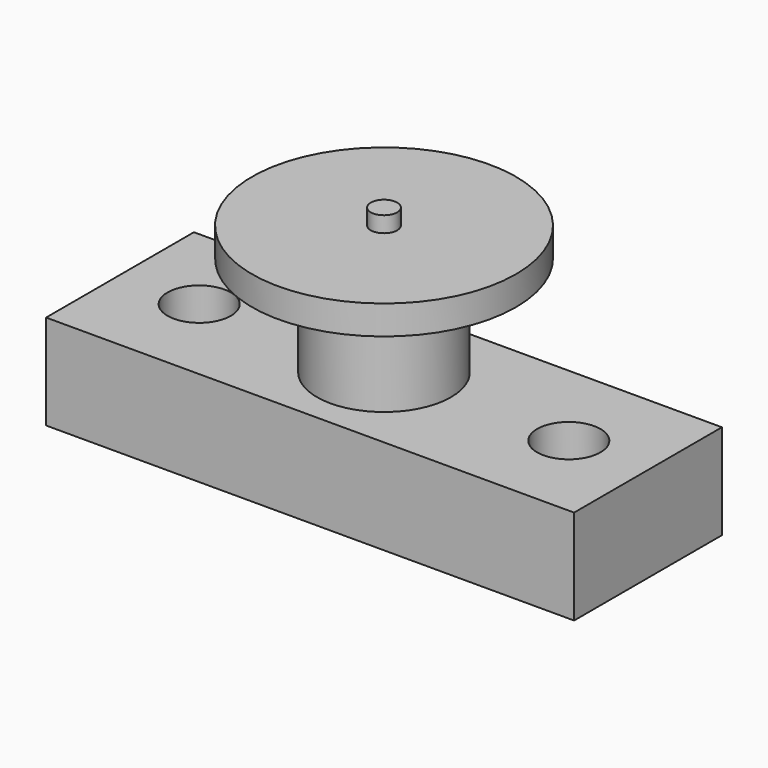
from build123d import *

# Parameters (mm, degrees)
F0_W     = 100
F0_H     = 35
F1_DEPTH = 18
F3_D     = 12
F4_R     = 12.7
F5_DEPTH = 19
F6_R     = 25
F6_R_2   = 12.7
F7_DEPTH = 5.5
F8_R     = 2.5
F9_DEPTH = 3


with BuildPart() as f1:
    # F0 (on Top) → F1 (new body)
    with BuildSketch(Plane.XY):
        Rectangle(F0_W, F0_H)
    extrude(amount=-F1_DEPTH)

    # F3 (through all)
    with Locations(Plane.XY):
        with Locations((-35, 0), (35, 0)):
            Hole(F3_D / 2)

    # F4 (on face) → F5 (join)
    with BuildSketch(Plane.XY):
        Circle(F4_R)
    extrude(amount=F5_DEPTH)

    # F6 (on face) → F7 (join)
    with BuildSketch(Plane.XY.offset(19)):
        Circle(F6_R)
        Circle(F6_R_2, mode=Mode.SUBTRACT)
        Circle(F6_R_2)
    extrude(amount=F7_DEPTH)

    # F8 (on face) → F9 (join)
    with BuildSketch(Plane.XY.offset(24.5)):
        Circle(F8_R)
    extrude(amount=F9_DEPTH)


solid = f1.part
